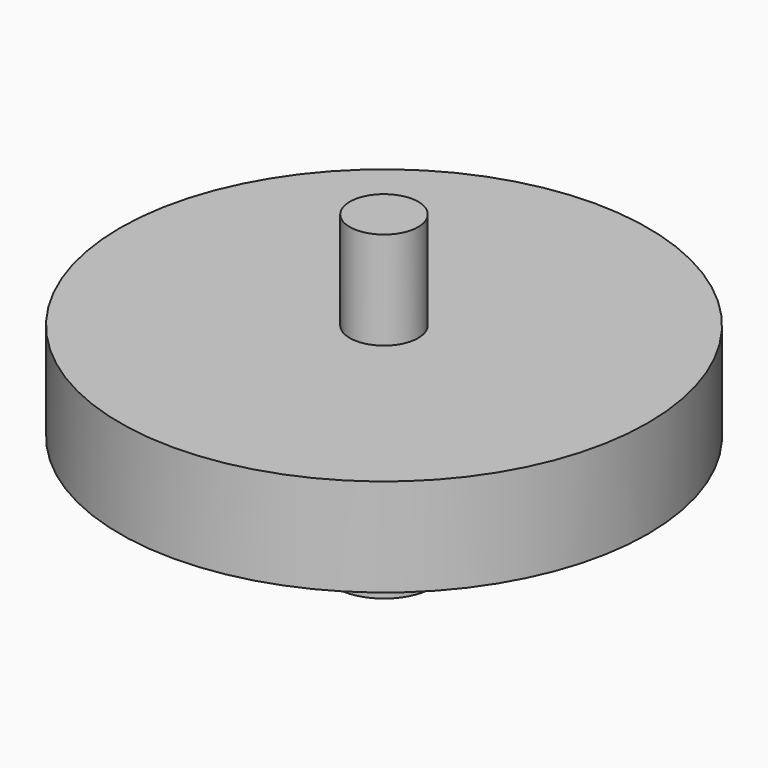
from build123d import *

# Parameters (mm, degrees)
SKETCH004_R           = 54
EXTRUDE004_DEPTH      = 20
SKETCH003_R           = 10
EXTRUDE003_DEPTH      = 30
EXTRUDE003_DEPTH_BACK = 14
SKETCH005_R           = 7
EXTRUDE005_DEPTH      = 20


with BuildPart() as outercylinder:
    # Sketch004 (on Face3 of Extrude003) → Extrude004 (new body)
    with BuildSketch(Plane.XY.offset(98.4)):
        with Locations((-58.7, 20.37)):
            Circle(SKETCH004_R)
    extrude(amount=-EXTRUDE004_DEPTH)


with BuildPart() as innercylinder:
    # Sketch003 → Extrude003 (new body, two sides)
    with BuildSketch(Plane.XY.offset(68.4)) as extrude003_sk:
        with Locations((-58.7, 20.37)):
            Circle(SKETCH003_R)
    extrude(amount=EXTRUDE003_DEPTH)
    extrude(extrude003_sk.sketch, amount=-EXTRUDE003_DEPTH_BACK)


with BuildPart() as motoradapter:
    # Sketch005 (on Face3 of Extrude003) → Extrude005 (new body)
    with BuildSketch(Plane.XY.offset(98.4)):
        with Locations((-58.7, 20.37)):
            Circle(SKETCH005_R)
    extrude(amount=EXTRUDE005_DEPTH)

    # Fusion005: union outerCylinder, innerCylinder
    add(outercylinder.part)
    add(innercylinder.part)


with BuildPart() as motoradapter_1:
    # Fusion005 placement: moved
    add(motoradapter.part.moved(Location((54, -208, -74))))


solid = motoradapter_1.part
